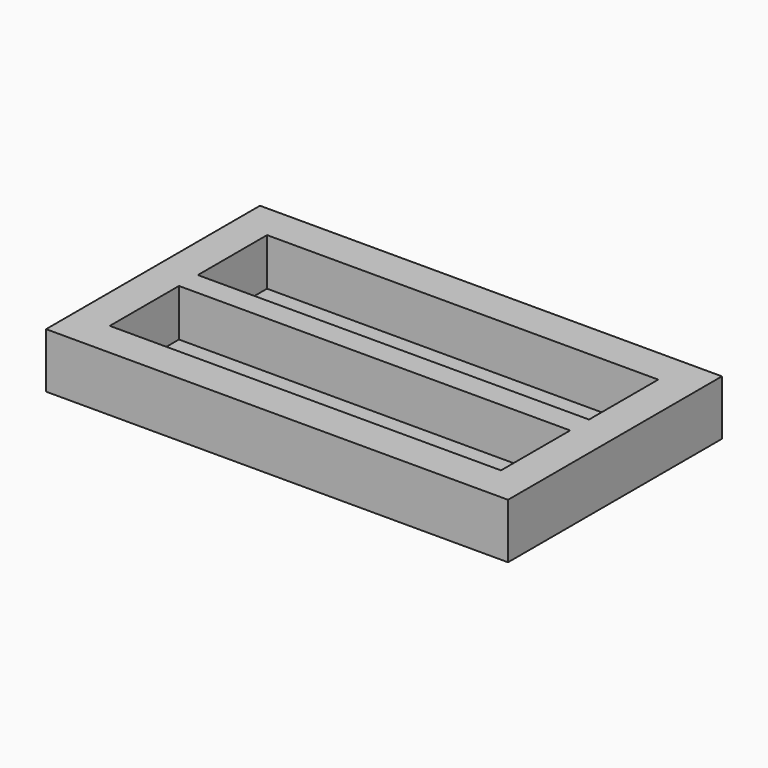
from build123d import *

# Parameters (mm, degrees)
SKETCH_W     = 587.5
SKETCH_H     = 340
PAD_DEPTH    = 10
SKETCH001_W  = 587.5
SKETCH001_H  = 45
PAD001_DEPTH = 60
SKETCH002_W  = 587.5
SKETCH002_H  = 45
PAD002_DEPTH = 60
SKETCH003_W  = 45
SKETCH003_H  = 250
PAD003_DEPTH = 60
SKETCH004_W  = 45
SKETCH004_H  = 250
PAD004_DEPTH = 60
SKETCH005_W  = 497.5
SKETCH005_H  = 30
PAD005_DEPTH = 60


with BuildPart() as part:
    # Sketch → Pad (new body)
    with BuildSketch(Plane.XY):
        with Locations((278.206882, -276.545756)):
            Rectangle(SKETCH_W, SKETCH_H)
    extrude(amount=PAD_DEPTH)

    # Sketch001 (on Face6 of Pad) → Pad001 (join)
    with BuildSketch(Plane.XY.offset(10)):
        with Locations((278.206882, -129.045756)):
            Rectangle(SKETCH001_W, SKETCH001_H)
    extrude(amount=PAD001_DEPTH)

    # Sketch002 (on Face3 of Pad001) → Pad002 (join)
    with BuildSketch(Plane.XY.offset(10)):
        with Locations((278.206882, -424.045756)):
            Rectangle(SKETCH002_W, SKETCH002_H)
    extrude(amount=PAD002_DEPTH)

    # Sketch003 (on Face3 of Pad002) → Pad003 (join)
    with BuildSketch(Plane.XY.offset(10)):
        with Locations((6.956882, -276.545756)):
            Rectangle(SKETCH003_W, SKETCH003_H)
    extrude(amount=PAD003_DEPTH)

    # Sketch004 (on Face6 of Pad003) → Pad004 (join)
    with BuildSketch(Plane.XY.offset(10)):
        with Locations((549.456882, -276.545756)):
            Rectangle(SKETCH004_W, SKETCH004_H)
    extrude(amount=PAD004_DEPTH)

    # Sketch005 (on Face11 of Pad004) → Pad005 (join)
    with BuildSketch(Plane.XY.offset(10)):
        with Locations((278.206882, -276.545756)):
            Rectangle(SKETCH005_W, SKETCH005_H)
    extrude(amount=PAD005_DEPTH)


solid = part.part
